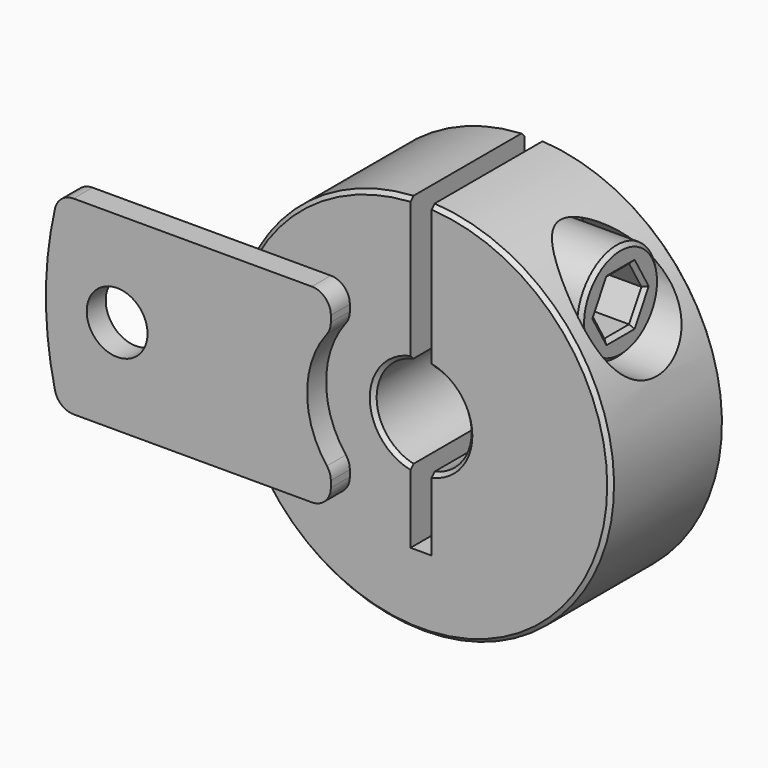
from build123d import *

# Parameters (mm, degrees)
F1_DEPTH  = 4.7625
F2_SIZE   = 0.254
F3_R      = 2.032
F4_DEPTH  = 1.5875
F6_R      = 3.556
F7_DEPTH  = 25.4
F8_R      = 1.5875
F9_DEPTH  = 25.4
F10_R     = 3.302
F11_DEPTH = 4.7625
F12_R     = 1.58115
F13_DEPTH = 12.065
F14_SIZE  = 0.508
F16_DEPTH = 3.175
F17_SIZE  = 0.254


with BuildPart() as f1:
    # F0 (on Front) → F1 (new body, symmetric)
    with BuildSketch(Plane.XZ):
        with BuildLine():
            Line((-0.70485, 3.0957731631), (-0.70485, 12.6804253272))
            ThreePointArc((-0.70485, 12.6804253272), (0, -12.7), (0.70485, 12.6804253272))
            Line((0.70485, 12.6804253272), (0.70485, 3.0957731631))
            ThreePointArc((0.70485, 3.0957731631), (3.175, 0), (0.70485, -3.0957731631))
            Line((0.70485, -3.0957731631), (0.70485, -7.9375))
            Line((0.70485, -7.9375), (-0.70485, -7.9375))
            Line((-0.70485, -7.9375), (-0.70485, -3.0957731631))
            ThreePointArc((-0.70485, -3.0957731631), (-3.175, 0), (-0.70485, 3.0957731631))
        make_face()
    extrude(amount=F1_DEPTH, both=True)

    # F2
    f2_edges = [f1.edges().sort_by_distance(p)[0] for p in [
        (0, -4.7625, -12.7),
        (-3.175, -4.7625, 0),
        (0, 4.7625, -12.7),
        (-3.175, 4.7625, 0),
        (3.175, 4.7625, 0),
        (3.175, -4.7625, 0),
    ]]
    chamfer(f2_edges, length=F2_SIZE)

    # F6 (on offset) → F7 (cut)
    with BuildSketch(Plane.YZ.offset(4.7625)):
        with Locations((0, 7.8909002254)):
            Circle(F6_R)
    extrude(amount=F7_DEPTH, mode=Mode.SUBTRACT)

    # F8 (on face) → F9 (cut)
    with BuildSketch(Plane.YZ.offset(4.7625)):
        with Locations((0, 7.8909002254)):
            Circle(F8_R)
    extrude(amount=-F9_DEPTH, mode=Mode.SUBTRACT)


with BuildPart() as f4:
    # F3 (on face) → F4 (new body)
    with BuildSketch(Plane.XZ.offset(4.7625)):
        with BuildLine():
            Line((-10.7042242129, 6.35), (-21.962647979, 6.35))
            ThreePointArc((-21.962647979, 6.35), (-22.75303699, 6.0740750531), (-23.1999802595, 5.3661971831))
            ThreePointArc((-23.1999802595, 5.3661971831), (-23.8125, 0), (-23.1999802595, -5.3661971831))
            ThreePointArc((-23.1999802595, -5.3661971831), (-22.75303699, -6.0740750531), (-21.962647979, -6.35))
            Line((-21.962647979, -6.35), (-10.7042242129, -6.35))
            ThreePointArc((-10.7042242129, -6.35), (-12.446, 0), (-10.7042242129, 6.35))
        make_face()
        with Locations((-19.05, 0)):
            Circle(F3_R, mode=Mode.SUBTRACT)
        with BuildLine():
            Line((-6.0325, 6.35), (-10.7042242129, 6.35))
            ThreePointArc((-10.7042242129, 6.35), (-12.446, 0), (-10.7042242129, -6.35))
            Line((-10.7042242129, -6.35), (-6.0325, -6.35))
            ThreePointArc((-6.0325, -6.35), (-5.1344743879, -5.9780256121), (-4.7625, -5.08))
            Line((-4.7625, -5.08), (-4.7625, -4.6554638598))
            ThreePointArc((-4.7625, -4.6554638598), (-4.8304644001, -4.2455731223), (-5.0270833333, -3.8795532165))
            ThreePointArc((-5.0270833333, -3.8795532165), (-6.35, 0), (-5.0270833333, 3.8795532165))
            ThreePointArc((-5.0270833333, 3.8795532165), (-4.8304644001, 4.2455731223), (-4.7625, 4.6554638598))
            Line((-4.7625, 4.6554638598), (-4.7625, 5.08))
            ThreePointArc((-4.7625, 5.08), (-5.1344743879, 5.9780256121), (-6.0325, 6.35))
        make_face()
    extrude(amount=F4_DEPTH)


with BuildPart() as f11:
    # F10 (on face) → F11 (new body)
    with BuildSketch(Plane.YZ.offset(4.7625)):
        with Locations((0, 7.8909002254)):
            Circle(F10_R)
    extrude(amount=F11_DEPTH)

    # F12 (on face) → F13 (join)
    with BuildSketch(Plane(origin=(4.7625, 0, 0), x_dir=(0, -1, 0), z_dir=(-1, 0, 0))):
        with Locations((0, 7.8909002254)):
            Circle(F12_R)
    extrude(amount=F13_DEPTH)

    # F14
    f14_edges = [f11.edges().sort_by_distance(p)[0] for p in [
        (-7.3025, 1.58115, 7.8909),
    ]]
    chamfer(f14_edges, length=F14_SIZE)

    # F15 (on face) → F16 (cut)
    with BuildSketch(Plane.YZ.offset(9.525)):
        Polygon((1.0311114964, 9.6768377254), (-1.0311114964, 9.6768377254), (-2.0622229928, 7.8909002254), (-1.0311114964, 6.1049627254), (1.0311114964, 6.1049627254), (2.0622229928, 7.8909002254), align=None)
    extrude(amount=-F16_DEPTH, mode=Mode.SUBTRACT)

    # F17
    f17_edges = [f11.edges().sort_by_distance(p)[0] for p in [
        (9.525, -3.302, 7.8909),
        (9.525, 0, 9.676838),
        (9.525, -1.546667, 8.783869),
        (9.525, -1.546667, 6.997931),
        (9.525, 0, 6.104963),
        (9.525, 1.546667, 6.997931),
        (9.525, 1.546667, 8.783869),
    ]]
    chamfer(f17_edges, length=F17_SIZE)


solid = Compound([f1.part, f4.part, f11.part])
